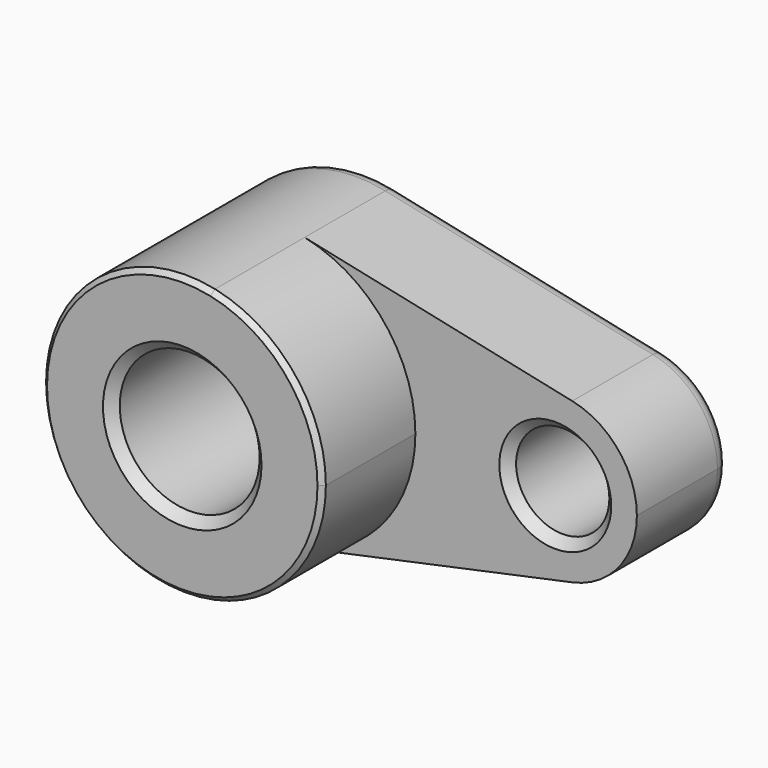
from build123d import *

# Parameters (mm, degrees)
F0_R     = 15
F0_R_2   = 10
F1_DEPTH = 25
F2_DEPTH = 50
F3_R     = 3.379899
F4_SIZE  = 2
F5_SIZE  = 1


with BuildPart() as f1:
    # F0 (on Front) → F1 (new body)
    with BuildSketch(Plane.XZ):
        with BuildLine():
            ThreePointArc((6.25, -29.341736), (23.318448, -18.874586), (30, 0))
            ThreePointArc((30, 0), (23.318448, 18.874586), (6.25, 29.341736))
            ThreePointArc((6.25, 29.341736), (-30, 0), (6.25, -29.341736))
        make_face()
        Circle(F0_R, mode=Mode.SUBTRACT)
        with BuildLine():
            ThreePointArc((6.25, 29.341736), (23.318448, 18.874586), (30, 0))
            ThreePointArc((30, 0), (23.318448, -18.874586), (6.25, -29.341736))
            Line((6.25, -29.341736), (63.645833, -17.116013))
            ThreePointArc((63.645833, -17.116013), (42.5, 0), (63.645833, 17.116013))
            Line((63.645833, 17.116013), (6.25, 29.341736))
        make_face()
        with BuildLine():
            ThreePointArc((77.5, 0), (73.602428, 11.010175), (63.645833, 17.116013))
            ThreePointArc((63.645833, 17.116013), (42.5, 0), (63.645833, -17.116013))
            ThreePointArc((63.645833, -17.116013), (73.602428, -11.010175), (77.5, 0))
        make_face()
        with Locations((60, 0)):
            Circle(F0_R_2, mode=Mode.SUBTRACT)
    extrude(amount=F1_DEPTH)

    # F0 (on Front) → F2 (join)
    with BuildSketch(Plane.XZ):
        with BuildLine():
            ThreePointArc((6.25, -29.341736), (23.318448, -18.874586), (30, 0))
            ThreePointArc((30, 0), (23.318448, 18.874586), (6.25, 29.341736))
            ThreePointArc((6.25, 29.341736), (-30, 0), (6.25, -29.341736))
        make_face()
        Circle(F0_R, mode=Mode.SUBTRACT)
    extrude(amount=F2_DEPTH)

    # F3
    f3_edges = [f1.edges().sort_by_distance(p)[0] for p in [
        (-30, 0, 0),
        (34.947917, 0, -23.228875),
        (77.5, 0, 0),
        (34.947917, 0, 23.228875),
    ]]
    fillet(f3_edges, radius=F3_R)

    # F4
    f4_edges = [f1.edges().sort_by_distance(p)[0] for p in [
        (-15, -50, 0),
        (50, -25, 0),
    ]]
    chamfer(f4_edges, length=F4_SIZE)

    # F5
    f5_edges = [f1.edges().sort_by_distance(p)[0] for p in [
        (-6.25, -50, 29.341736),
    ]]
    chamfer(f5_edges, length=F5_SIZE)


solid = f1.part
